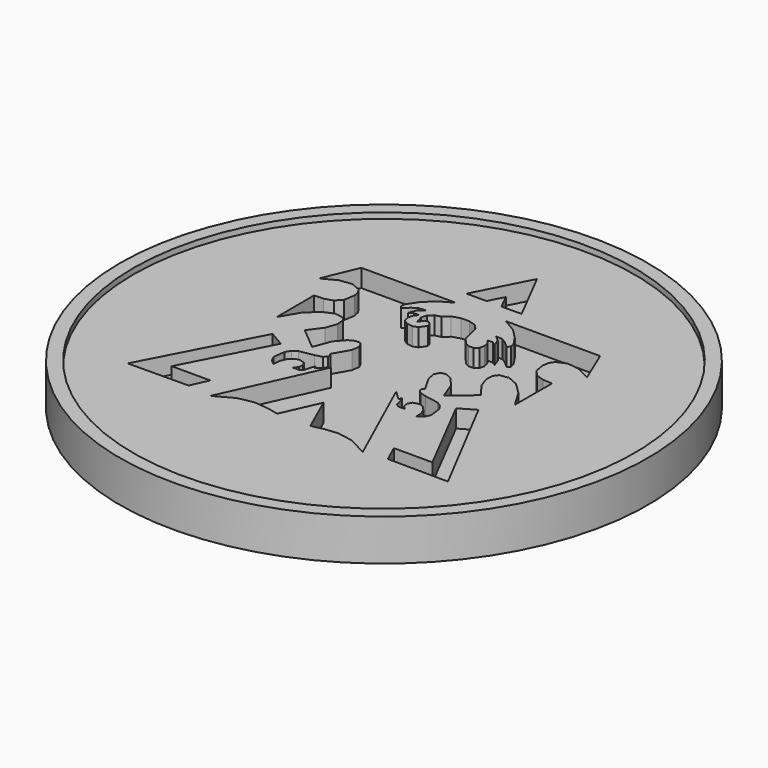
from build123d import *

# Parameters (mm, degrees)
F3_DEPTH = 3.175


with BuildPart() as f1:
    # F0 (on Front) → F1 (revolve)
    with BuildSketch(Plane.XZ):
        Polygon((-44.60875, 7.366), (-46.99, 7.366), (-46.99, 0), (0, 0), (0, 6.35), (-44.60875, 6.35), align=None)
    revolve(axis=Axis((0, 0, 3.175), (0, 0, -1)))

    # F2 (on face) → F3 (cut)
    with BuildSketch(Plane.XY.offset(6.35)):
        Polygon((-1.27856, 24.42342), (0.086309, 27.042744), (0.086309, 27.04249), (1.376401, 24.417806), (4.960849, 24.442775), (0.064059, 33.987942), (-4.838065, 24.420524), align=None)
        Polygon((21.404859, 21.365285), (4.587618, 21.365285), (6.984848, 19.982128), (8.678697, 18.274486), (9.758477, 16.642765), (9.926828, 15.852952), (9.544583, 15.383585), (8.482152, 16.312336), (7.611542, 16.871974), (6.360439, 16.963592), (7.369531, 16.127399), (7.833487, 14.848864), (7.176948, 15.278226), (6.232804, 15.276651), (6.743167, 14.641524), (6.952386, 13.714805), (6.773342, 12.827304), (6.118962, 12.309855), (5.262372, 12.287097), (4.556303, 12.600253), (3.490239, 13.800149), (3.050083, 15.826942), (2.735605, 16.944949), (1.97579, 17.784622), (0.689127, 18.192343), (-0.806958, 18.179922), (-2.201037, 17.734406), (-3.181604, 16.842841), (-4.2418, 16.576166), (-5.013681, 15.87886), (-5.292954, 14.828722), (-4.875454, 13.503477), (-4.323842, 14.399411), (-3.680892, 14.514905), (-3.161716, 14.122069), (-2.981528, 13.493114), (-3.760622, 12.353568), (-4.590974, 12.092431), (-5.668874, 12.195987), (-6.499936, 12.788924), (-6.717919, 13.707896), (-6.480353, 14.640229), (-5.94487, 15.273197), (-6.890715, 15.274772), (-7.549007, 14.84541), (-7.083298, 16.123944), (-6.072505, 16.960138), (-7.323607, 16.86852), (-8.194192, 16.308831), (-9.256649, 15.380131), (-9.638894, 15.849447), (-9.470517, 16.639285), (-8.390738, 18.271032), (-6.696913, 19.978674), (-4.299331, 21.362034), (-21.116925, 21.362034), (-23.700816, 15.186938), (-21.258835, 16.47162), (-19.020206, 16.778045), (-17.35902, 16.054323), (-16.861917, 15.289961), (-16.649497, 14.248612), (-16.960164, 12.363246), (-17.953812, 11.292941), (-19.395745, 10.824209), (-21.051393, 10.74364), (-21.030692, 2.474569), (-19.190894, 5.5817), (-17.204919, 7.525028), (-15.341651, 8.32589), (-13.78618, 8.114918), (-13.214096, 7.392644), (-13.110312, 6.040805), (-13.777443, 4.144314), (-15.517978, 1.788057), (-11.585245, -1.523722), (-10.425836, 1.546173), (-8.991016, 3.174872), (-7.927746, 3.711269), (-6.993611, 3.585387), (-6.471895, 2.653613), (-6.700368, 1.232636), (-8.339023, -1.651357), (-7.993355, -1.87254), (-8.015707, -2.372844), (-8.547278, -2.907387), (-9.729267, -3.231364), (-12.221972, -3.688183), (-13.044195, -4.211042), (-13.617169, -5.07007), (-13.888491, -7.19859), (-13.445465, -8.150328), (-12.527026, -8.916569), (-12.479503, -7.684542), (-12.045417, -6.64332), (-11.365713, -5.910759), (-10.581361, -5.60479), (-9.514891, -5.904053), (-9.135923, -6.622467), (-9.222105, -7.380301), (-9.79137, -8.061021), (-8.738311, -8.046137), (-8.129295, -7.663841), (-7.783601, -6.329249), (-7.517968, -5.782768), (-7.335139, -6.287847), (-5.668899, -4.728541), (-13.403275, -21.842833), (-10.070135, -20.050228), (-7.271182, -19.5373), (-4.88884, -19.776974), (-2.805582, -20.24215), (0.123266, -13.659994), (0.164668, -13.656717), (3.090062, -20.238873), (5.173853, -19.773698), (7.557364, -19.534023), (10.35751, -20.046951), (13.691184, -21.839581), (5.953354, -4.72529), (7.623048, -6.284571), (7.805903, -5.779492), (8.07151, -6.325973), (8.417204, -7.66059), (9.02622, -8.042886), (10.079279, -8.05777), (9.510039, -7.377025), (9.423832, -6.619216), (9.8028, -5.900777), (10.86927, -5.601514), (11.653622, -5.907482), (12.333326, -6.640044), (12.767412, -7.681266), (12.81496, -8.913293), (13.733399, -8.147051), (14.1764, -7.195313), (13.905078, -5.066818), (13.331571, -4.207765), (12.508179, -3.684906), (10.013747, -3.228087), (8.832291, -2.90411), (8.301888, -2.369567), (8.28073, -1.869263), (8.626932, -1.64808), (6.988302, 1.235912), (6.758076, 2.656864), (7.278065, 3.588663), (8.213954, 3.714546), (9.27895, 3.178123), (10.713771, 1.54945), (11.873154, -1.520445), (15.805887, 1.791334), (14.065352, 4.14759), (13.398246, 6.044081), (13.502005, 7.39592), (14.074115, 8.118195), (15.627833, 8.329167), (17.489373, 7.52828), (19.477101, 5.584976), (21.318626, 2.47782), (21.339302, 10.746917), (19.683654, 10.827486), (18.241721, 11.296192), (17.248099, 12.366522), (16.937406, 14.251888), (17.149826, 15.293237), (17.646929, 16.0576), (19.308115, 16.781322), (21.546769, 16.474896), (23.988725, 15.190215), align=None)
        Polygon((17.719319, -21.278089), (28.488691, -21.36356), (18.320309, -1.851204), (15.590571, -3.442209), (23.189489, -18.201108), (16.326866, -18.201108), align=None)
        Polygon((-18.320258, -1.882116), (-28.488665, -21.394472), (-17.719294, -21.309001), (-16.326841, -18.232019), (-23.189438, -18.232019), (-15.590545, -3.473121), align=None)
    extrude(amount=-F3_DEPTH, mode=Mode.SUBTRACT)


solid = f1.part
